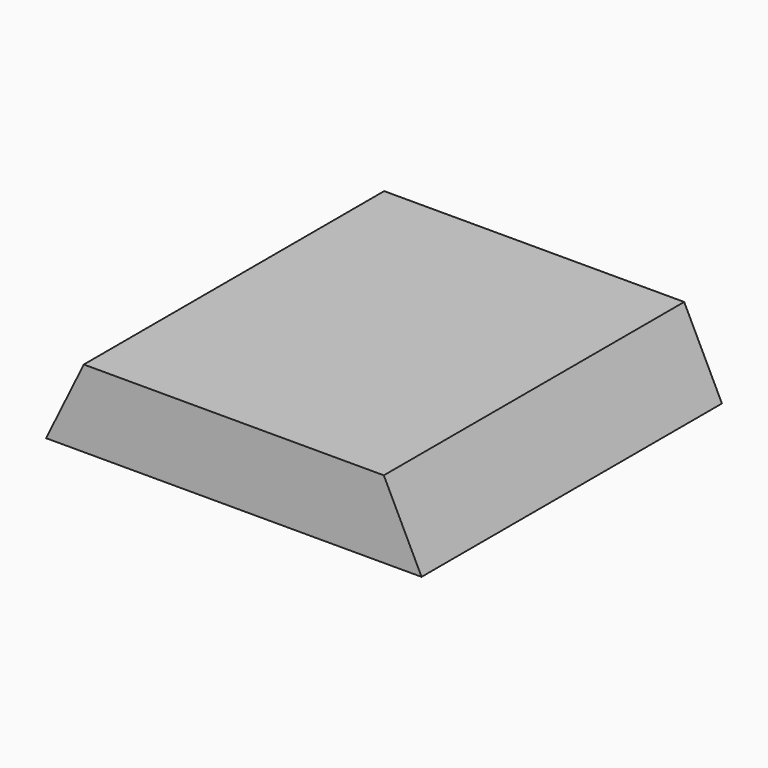
from build123d import *

# Parameters (mm, degrees)
F0_W     = 43.8
F0_H     = 43.8
F1_DEPTH = 9
F3_DEPTH = 43.8
F5_DEPTH = 4


with BuildPart() as f1:
    # F0 (on Top) → F1 (new body)
    with BuildSketch(Plane.XY):
        with Locations((6.28503, 0.571359)):
            Rectangle(F0_W, F0_H)
    extrude(amount=F1_DEPTH)

    # F2 (on face) → F3 (cut, through all)
    with BuildSketch(Plane.XZ.offset(21.328641)):
        Polygon((-15.61497, 0), (-11.21497, 9), (-15.61497, 9), align=None)
        Polygon((28.18503, 9), (23.78503, 9), (28.18503, 0), align=None)
    extrude(amount=-F3_DEPTH, mode=Mode.SUBTRACT)

    # F4 (on face) → F5 (cut)
    with BuildSketch(Plane(origin=(0, 0, 0), x_dir=(1, 0, 0), z_dir=(0, 0, -1))):
        with BuildLine():
            ThreePointArc((10.527671, -4.814), (11.828308, -2.86746), (12.28503, -0.571359))
            ThreePointArc((12.28503, -0.571359), (11.828308, 1.724742), (10.527671, 3.671282))
            Line((10.527671, 3.671282), (6.28503, -0.571359))
            Line((6.28503, -0.571359), (10.527671, -4.814))
        make_face()
        with BuildLine():
            Line((6.28503, -0.571359), (10.527671, 3.671282))
            ThreePointArc((10.527671, 3.671282), (6.28503, 5.428641), (2.04239, 3.671282))
            Line((2.04239, 3.671282), (6.28503, -0.571359))
        make_face()
        with BuildLine():
            ThreePointArc((2.04239, -4.814), (6.28503, -6.571359), (10.527671, -4.814))
            Line((10.527671, -4.814), (6.28503, -0.571359))
            Line((6.28503, -0.571359), (2.04239, -4.814))
        make_face()
        with BuildLine():
            Line((6.28503, -0.571359), (2.04239, 3.671282))
            ThreePointArc((2.04239, 3.671282), (0.28503, -0.571359), (2.04239, -4.814))
            Line((2.04239, -4.814), (6.28503, -0.571359))
        make_face()
    extrude(amount=-F5_DEPTH, mode=Mode.SUBTRACT)


solid = f1.part
